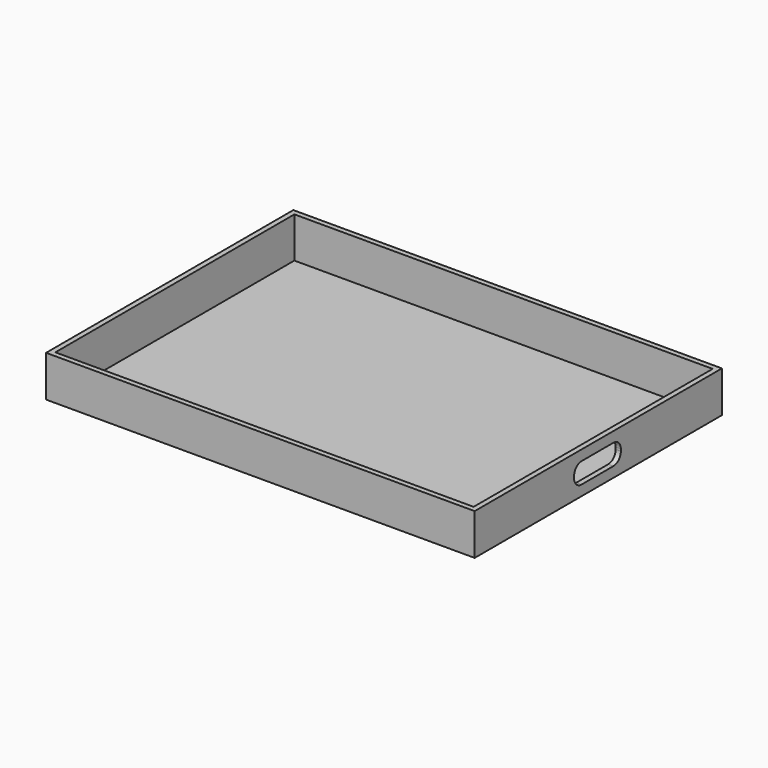
from build123d import *

# Parameters (mm, degrees)
F0_W     = 528.32
F0_H     = 381
F1_DEPTH = 50.8
F2_W     = 515.62
F2_H     = 368.3
F3_DEPTH = 50.165
F4_W     = 72.005392
F4_H     = 25.4
F5_DEPTH = 6.35
F6_R     = 11.43


with BuildPart() as f1:
    # F0 (on Top) → F1 (new body)
    with BuildSketch(Plane.XY):
        Rectangle(F0_W, F0_H)
    extrude(amount=F1_DEPTH)

    # F2 (on face) → F3 (cut)
    with BuildSketch(Plane.XY.offset(50.8)):
        Rectangle(F2_W, F2_H)
    extrude(amount=-F3_DEPTH, mode=Mode.SUBTRACT)

    # F4 (on face) → F5 (cut)
    with BuildSketch(Plane.YZ.offset(264.16)):
        with Locations((-1.279233, 25.4)):
            Rectangle(F4_W, F4_H)
    extrude(amount=-F5_DEPTH, mode=Mode.SUBTRACT)

    # F6
    f6_edges = [f1.edges().sort_by_distance(p)[0] for p in [
        (260.985, 34.723463, 12.7),
        (260.985, -37.281929, 12.7),
        (260.985, -37.281929, 38.1),
        (260.985, 34.723463, 38.1),
    ]]
    fillet(f6_edges, radius=F6_R)


solid = f1.part
